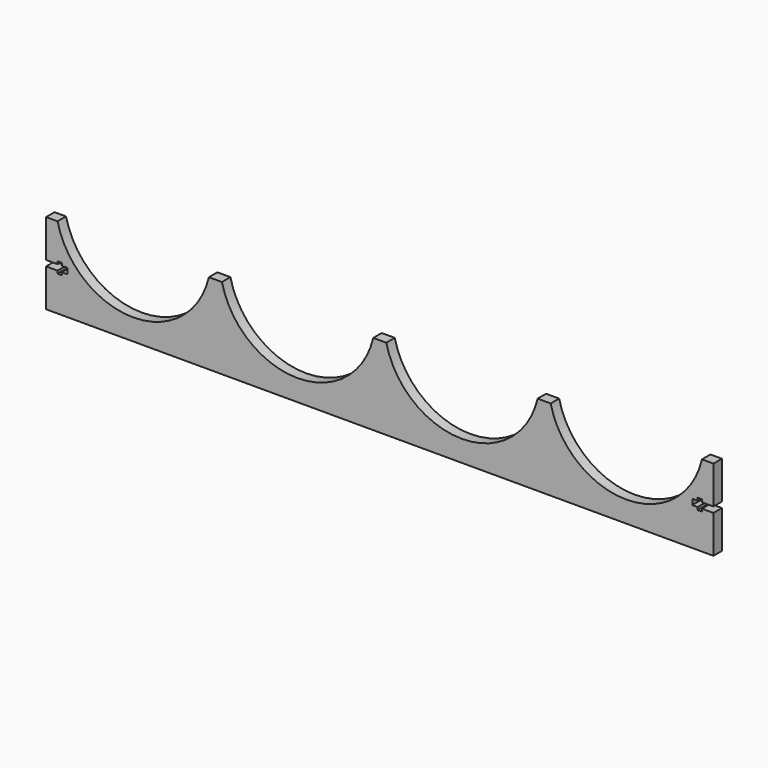
from build123d import *

# Parameters (mm, degrees)
F1_DEPTH = 6
F3_DEPTH = 6.001


with BuildPart() as f1:
    # F0 (on Front) → F1 (new body)
    with BuildSketch(Plane.XZ):
        with BuildLine():
            Line((-182.5, 23), (-189, 23))
            Line((-189, 23), (-189, -23))
            Line((-189, -23), (189, -23))
            Line((189, -23), (189, 23))
            Line((189, 23), (182.5, 23))
            ThreePointArc((182.5, 23), (139.651429, -11), (96.802859, 23))
            Line((96.802859, 23), (89.399047, 23))
            ThreePointArc((89.399047, 23), (46.550476, -11), (3.701906, 23))
            Line((3.701906, 23), (-3.701906, 23))
            ThreePointArc((-3.701906, 23), (-46.550476, -11), (-89.399047, 23))
            Line((-89.399047, 23), (-96.802859, 23))
            ThreePointArc((-96.802859, 23), (-139.651429, -11), (-182.5, 23))
        make_face()
    extrude(amount=F1_DEPTH)

    # F2 (on face) → F3 (cut, through all)
    with BuildSketch(Plane.XZ.offset(6)):
        Polygon((189, -1.6), (189, 1.6), (182.5, 1.6), (182.5, 3.1), (180, 3.1), (180, 1.6), (177, 1.6), (177, -1.6), (180, -1.6), (180, -3.1), (182.5, -3.1), (182.5, -1.6), align=None)
        Polygon((-177, -1.6), (-177, 1.6), (-180, 1.6), (-180, 3.1), (-182.5, 3.1), (-182.5, 1.6), (-189, 1.6), (-189, -1.6), (-182.5, -1.6), (-182.5, -3.1), (-180, -3.1), (-180, -1.6), align=None)
    extrude(amount=-F3_DEPTH, mode=Mode.SUBTRACT)


solid = f1.part
